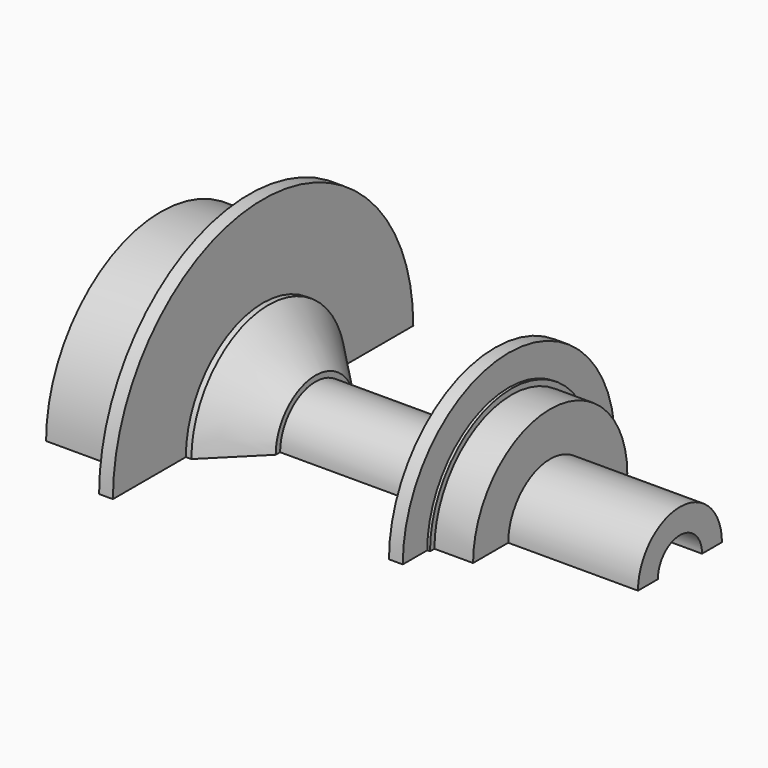
from build123d import *

# Parameters (mm, degrees)
REVOLUTION_ANGLE = 180


with BuildPart() as part:
    # Sketch → Revolution (revolve)
    with BuildSketch(Plane.XY):
        Polygon((26.5, 9.5), (26.5, 17.46), (19.5, 17.46), (19.5, 18.46), (19, 18.46), (19, 24), (16.5, 24), (16.5, 13.242641), (15.5, 13.242641), (11.257359, 9), (11.257359, 8), (-16.014719, 8), (-16.014719, 9), (-24.5, 17.485281), (-25.5, 17.485281), (-25.5, 34), (-28, 34), (-28, 26), (-44, 26), (-44, 9.5), (-50, 9.5), (-50, 5), (50, 5), (50, 9.5), align=None)
    revolve(axis=Axis((0, 0, 0), (1, 0, 0)), revolution_arc=REVOLUTION_ANGLE)


solid = part.part
